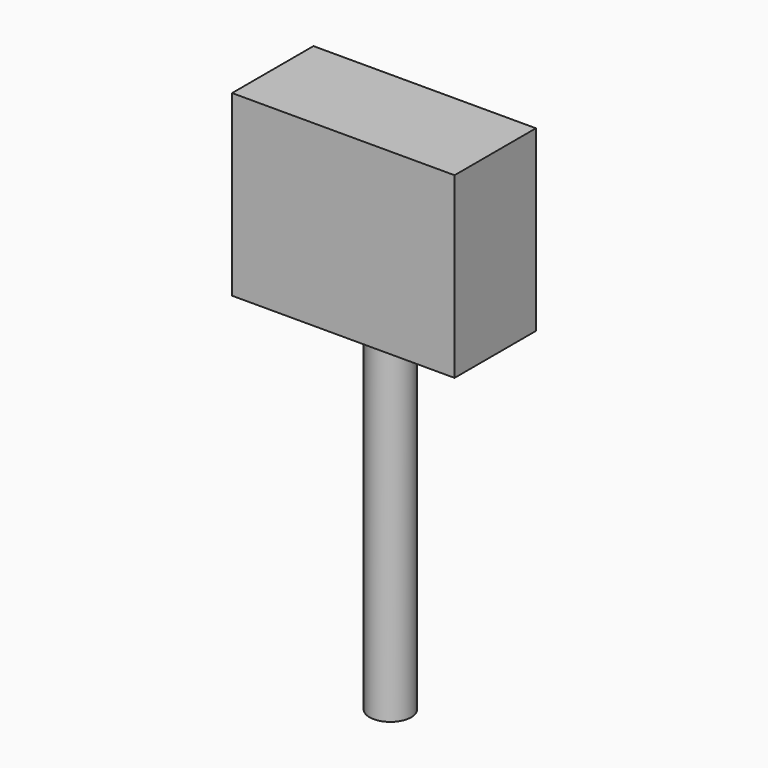
from build123d import *

# Parameters (mm, degrees)
F0_W     = 55.56523
F0_H     = 44.569992
F1_DEPTH = 25.4
F2_R     = 5.218262
F3_DEPTH = 110.220805


with BuildPart() as f1:
    # F0 (on Front) → F1 (new body)
    with BuildSketch(Plane.XZ):
        Rectangle(F0_W, F0_H)
    extrude(amount=F1_DEPTH)

    # F2 (on Top) → F3 (join)
    with BuildSketch(Plane.XY):
        with Locations((0, -10.700724)):
            Circle(F2_R)
    extrude(amount=-F3_DEPTH)


solid = f1.part
